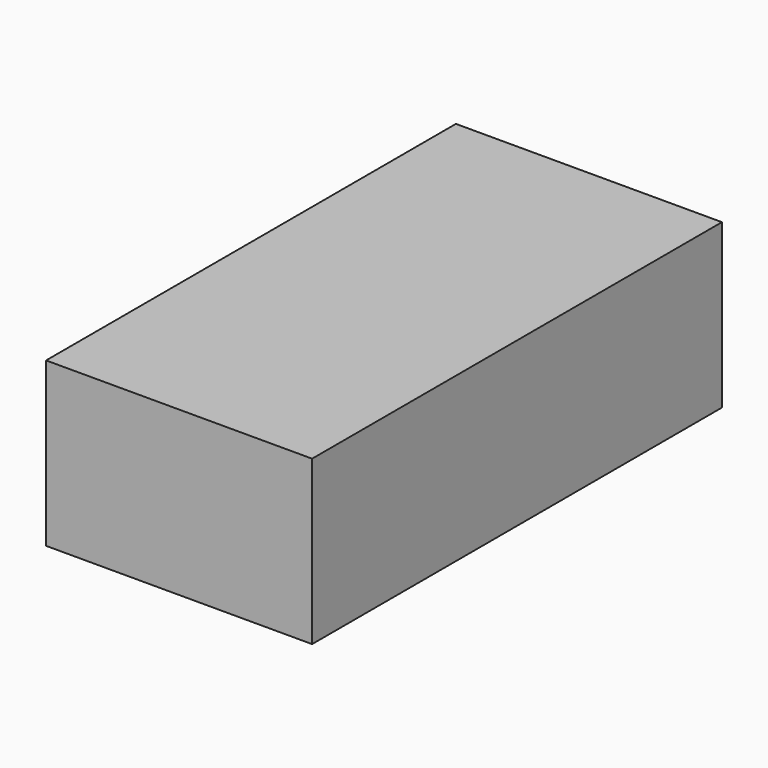
from build123d import *

# Parameters (mm, degrees)
F0_W     = 54
F0_H     = 30
F1_DEPTH = 115
F2_W     = 62.128
F2_H     = 38.128
F3_DEPTH = 119.634
F4_DEPTH = 25.4
F5_DEPTH = 114.046
F7_DEPTH = 115


with BuildPart() as f1:
    # F0 (on Front) → F1 (new body)
    with BuildSketch(Plane.XZ):
        with Locations((-5.357128, -13.008541)):
            Rectangle(F0_W, F0_H)
    extrude(amount=F1_DEPTH)

    # F2 (on Front) → F3 (join)
    with BuildSketch(Plane.XZ):
        with Locations((-5.357128, -13.008541)):
            Rectangle(F2_W, F2_H)
    extrude(amount=F3_DEPTH)

    # F0 (on Front) → F4 (cut)
    with BuildSketch(Plane.XZ):
        with Locations((-5.357128, -13.008541)):
            Rectangle(F0_W, F0_H)
    extrude(amount=-F4_DEPTH, mode=Mode.SUBTRACT)

    # F0 (on Front) → F5 (cut)
    with BuildSketch(Plane.XZ):
        with Locations((-5.357128, -13.008541)):
            Rectangle(F0_W, F0_H)
    extrude(amount=F5_DEPTH, mode=Mode.SUBTRACT)


with BuildPart() as f7:
    # F6 (on Front) → F7 (new body)
    with BuildSketch(Plane.XZ):
        Polygon((22.086273, -17.331536), (22.209849, -11.331536), (19.038273, -11.331536), (19.038273, -17.331536), align=None)
        Polygon((19.272029, -8.331536), (22.320029, -8.331536), (22.212252, -2.331536), (19.272029, -2.331536), align=None)
        Polygon((-29.912125, -8.741442), (-29.912125, -2.741442), (-34.377902, -2.741442), (-34.112774, -8.741442), align=None)
        Polygon((-29.912125, -17.741442), (-29.912125, -11.741442), (-33.507682, -11.741442), (-33.60853, -17.741442), align=None)
    extrude(amount=F7_DEPTH)


solid = Compound([f1.part, f7.part])
